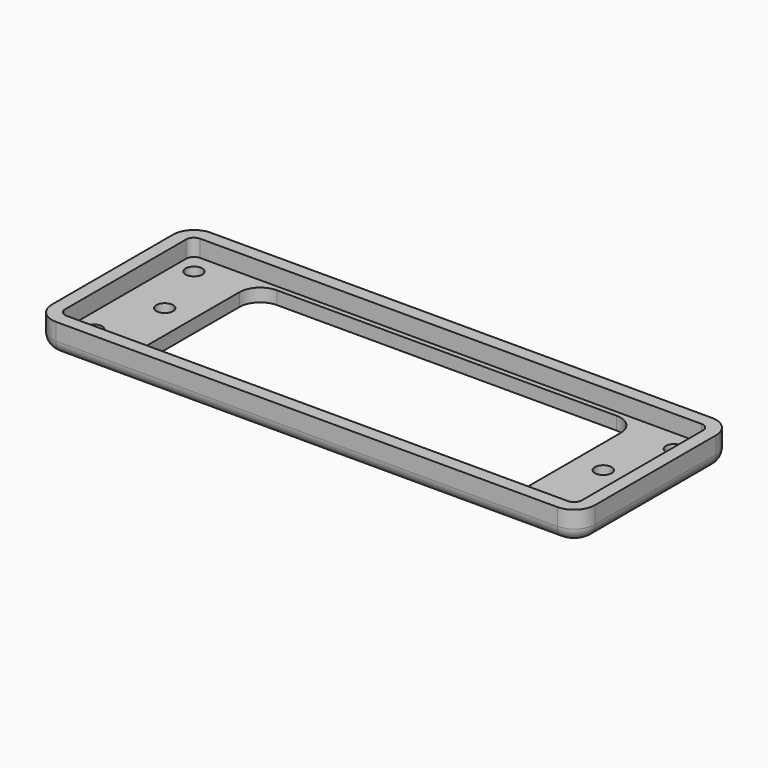
from build123d import *

# Parameters (mm, degrees)
F1_DEPTH = 2.5
F2_R     = 1.6
F3_DEPTH = 2.501
F5_DEPTH = 3.25
F6_R     = 2.5


with BuildPart() as f1:
    # F0 (on Top) → F1 (new body)
    with BuildSketch(Plane.XY):
        with BuildLine():
            ThreePointArc((52, 14.5), (50.828427, 17.328427), (48, 18.5))
            Line((48, 18.5), (-48, 18.5))
            ThreePointArc((-48, 18.5), (-50.828427, 17.328427), (-52, 14.5))
            Line((-52, 14.5), (-52, -14.5))
            ThreePointArc((-52, -14.5), (-50.828427, -17.328427), (-48, -18.5))
            Line((-48, -18.5), (48, -18.5))
            ThreePointArc((48, -18.5), (50.828427, -17.328427), (52, -14.5))
            Line((52, -14.5), (52, 14.5))
        make_face()
        with BuildLine():
            Line((-32.5, 15), (32.5, 15))
            ThreePointArc((32.5, 15), (35.328427, 13.828427), (36.5, 11))
            Line((36.5, 11), (36.5, -11))
            ThreePointArc((36.5, -11), (35.328427, -13.828427), (32.5, -15))
            Line((32.5, -15), (-32.5, -15))
            ThreePointArc((-32.5, -15), (-35.328427, -13.828427), (-36.5, -11))
            Line((-36.5, -11), (-36.5, 11))
            ThreePointArc((-36.5, 11), (-35.328427, 13.828427), (-32.5, 15))
        make_face(mode=Mode.SUBTRACT)
    extrude(amount=F1_DEPTH)

    # F2 (on face) → F3 (cut, through all)
    with BuildSketch(Plane.XY.offset(2.5)):
        with Locations((-46, 12)):
            Circle(F2_R)
        with Locations((46, 12)):
            Circle(F2_R)
        with Locations((46, -12)):
            Circle(F2_R)
        with Locations((-46, -12)):
            Circle(F2_R)
        with Locations((-42, 0)):
            Circle(F2_R)
        with Locations((42, 0)):
            Circle(F2_R)
    extrude(amount=-F3_DEPTH, mode=Mode.SUBTRACT)

    # F4 (on face) → F5 (join)
    with BuildSketch(Plane.XY.offset(2.5)):
        with BuildLine():
            Line((48, 18.5), (-48, 18.5))
            ThreePointArc((-48, 18.5), (-50.828427, 17.328427), (-52, 14.5))
            Line((-52, 14.5), (-52, -14.5))
            ThreePointArc((-52, -14.5), (-50.828427, -17.328427), (-48, -18.5))
            Line((-48, -18.5), (48, -18.5))
            ThreePointArc((48, -18.5), (50.828427, -17.328427), (52, -14.5))
            Line((52, -14.5), (52, 14.5))
            ThreePointArc((52, 14.5), (50.828427, 17.328427), (48, 18.5))
        make_face()
        with BuildLine():
            Line((-49.5, -14.5), (-49.5, 14.5))
            ThreePointArc((-49.5, 14.5), (-49.06066, 15.56066), (-48, 16))
            Line((-48, 16), (48, 16))
            ThreePointArc((48, 16), (49.06066, 15.56066), (49.5, 14.5))
            Line((49.5, 14.5), (49.5, -14.5))
            ThreePointArc((49.5, -14.5), (49.06066, -15.56066), (48, -16))
            Line((48, -16), (-48, -16))
            ThreePointArc((-48, -16), (-49.06066, -15.56066), (-49.5, -14.5))
        make_face(mode=Mode.SUBTRACT)
    extrude(amount=F5_DEPTH)

    # F6
    f6_edges = [f1.edges().sort_by_distance(p)[0] for p in [
        (-50.828427, 17.328427, 0),
        (0, 18.5, 0),
        (-52, 0, 0),
        (-50.828427, -17.328427, 0),
        (0, -18.5, 0),
        (50.828427, -17.328427, 0),
        (52, 0, 0),
        (50.828427, 17.328427, 0),
    ]]
    fillet(f6_edges, radius=F6_R)


solid = f1.part
